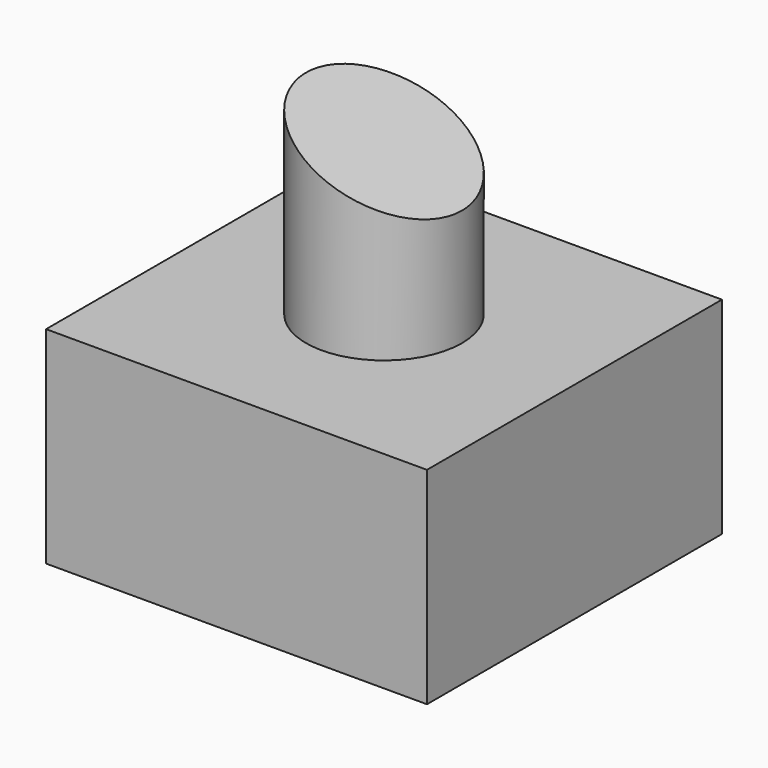
from build123d import *

# Parameters (mm, degrees)
F0_W     = 93.749092
F0_H     = 90.747274
F1_DEPTH = 50.8
F2_R     = 19.189435
F3_DEPTH = 50.8
F5_DEPTH = 67.564


with BuildPart() as f1:
    # F0 (on Top) → F1 (new body)
    with BuildSketch(Plane.XY):
        Rectangle(F0_W, F0_H)
    extrude(amount=F1_DEPTH)

    # F2 (on face) → F3 (join)
    with BuildSketch(Plane.XY.offset(50.8)):
        Circle(F2_R)
    extrude(amount=F3_DEPTH)

    # F4 (on Front) → F5 (cut, symmetric)
    with BuildSketch(Plane.XZ):
        Polygon((59.805457, 108.200155), (-43.911207, 108.200155), (59.805457, 61.056212), align=None)
    extrude(amount=F5_DEPTH, both=True, mode=Mode.SUBTRACT)


solid = f1.part
